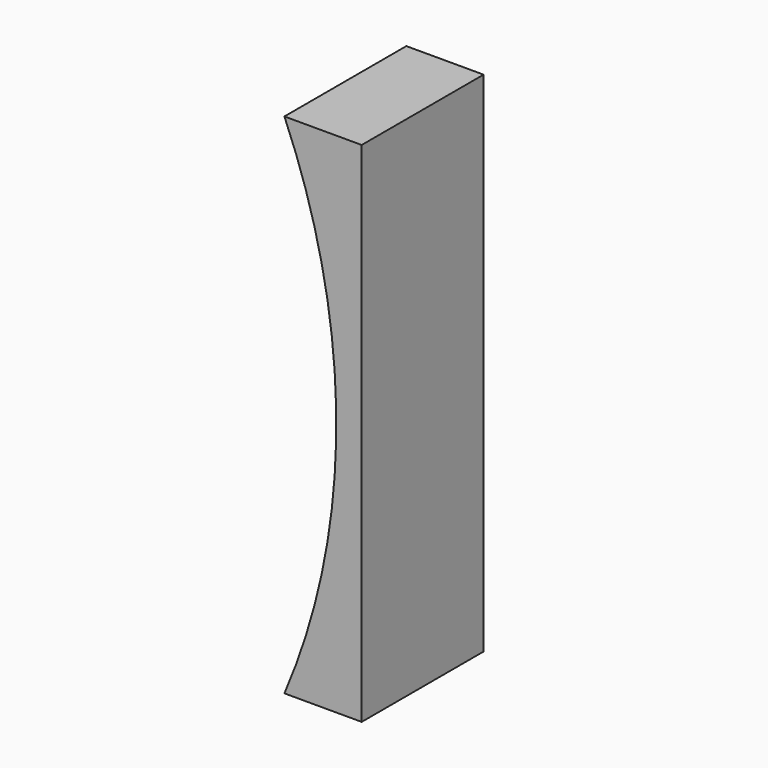
from build123d import *

# Parameters (mm, degrees)
CYLINDER014005822_R     = 51
CYLINDER014005822_DEPTH = 12
BOX001_W                = 10
BOX001_H                = 12
BOX001_DEPTH            = 40


with BuildPart() as obj1:
    # Cylinder014005822 → Cylinder014005822 (new body)
    with BuildSketch(Plane.XZ.offset(-51.5)):
        Circle(CYLINDER014005822_R)
    extrude(amount=CYLINDER014005822_DEPTH)


with BuildPart() as obj2:
    # Box001 → Box001 (new body)
    with BuildSketch(Plane(origin=(43, 39.5, -20), x_dir=(1, 0, 0), z_dir=(0, 0, 1))):
        with Locations((5, 6)):
            Rectangle(BOX001_W, BOX001_H)
    extrude(amount=BOX001_DEPTH)

    # Cut009003003003: cut obj1
    add(obj1.part, mode=Mode.SUBTRACT)


solid = obj2.part
